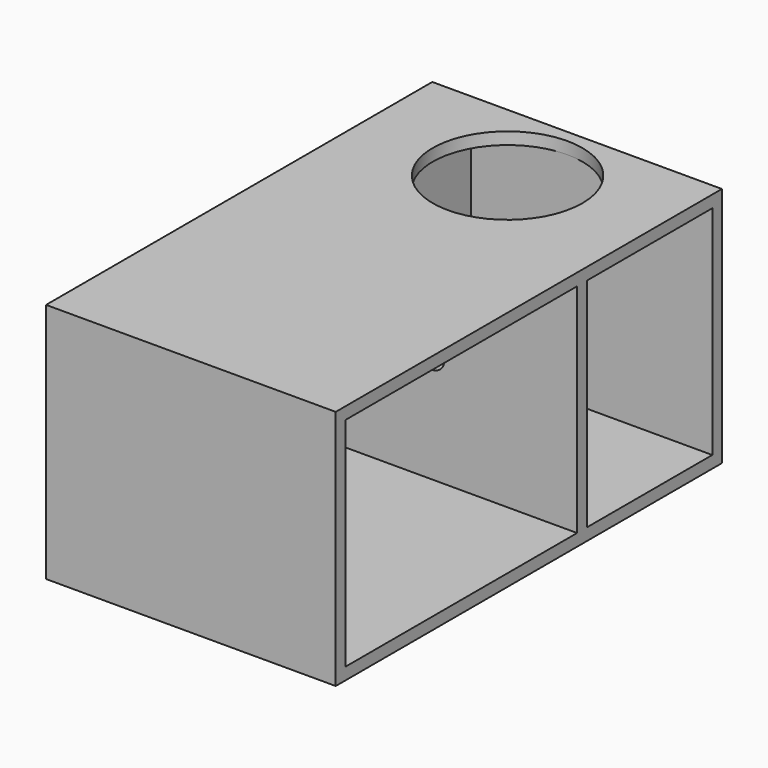
from build123d import *

# Parameters (mm, degrees)
F0_W      = 120
F0_H      = 70
F0_H_2    = 5
F0_H_3    = 125
F1_DEPTH  = 50
F2_DEPTH  = 50
F3_W      = 190
F3_H      = 90
F4_DEPTH  = 100
F5_R      = 31
F6_DEPTH  = 25
F7_R      = 5
F8_DEPTH  = 25
F9_DEPTH  = 50
F10_DEPTH = 50
F11_R     = 5
F12_DEPTH = 25


with BuildPart() as f1:
    # F0 (on Top) → F1 (new body)
    with BuildSketch(Plane.XY):
        with Locations((0, 65)):
            Rectangle(F0_W, F0_H)
        with Locations((0, 27.5)):
            Rectangle(F0_W, F0_H_2)
        with Locations((0, -37.5)):
            Rectangle(F0_W, F0_H_3)
    extrude(amount=-F1_DEPTH)

    # F0 (on Top) → F2 (join)
    with BuildSketch(Plane.XY):
        with Locations((0, 65)):
            Rectangle(F0_W, F0_H)
        with Locations((0, 27.5)):
            Rectangle(F0_W, F0_H_2)
        with Locations((0, -37.5)):
            Rectangle(F0_W, F0_H_3)
    extrude(amount=F2_DEPTH)

    # F3 (on face) → F4 (cut)
    with BuildSketch(Plane.YZ.offset(60)):
        Rectangle(F3_W, F3_H)
    extrude(amount=-F4_DEPTH, mode=Mode.SUBTRACT)

    # F5 (on face) → F6 (cut)
    with BuildSketch(Plane.XY.offset(50)):
        with Locations((0, 64)):
            Circle(F5_R)
    extrude(amount=-F6_DEPTH, mode=Mode.SUBTRACT)

    # F7 (on face) → F8 (cut)
    with BuildSketch(Plane(origin=(0, 100, 0), x_dir=(-1, 0, 0), z_dir=(0, 1, 0))):
        Circle(F7_R)
    extrude(amount=-F8_DEPTH, mode=Mode.SUBTRACT)

    # F0 (on Top) → F9 (join)
    with BuildSketch(Plane.XY):
        with Locations((0, 27.5)):
            Rectangle(F0_W, F0_H_2)
    extrude(amount=F9_DEPTH)

    # F0 (on Top) → F10 (join)
    with BuildSketch(Plane.XY):
        with Locations((0, 27.5)):
            Rectangle(F0_W, F0_H_2)
    extrude(amount=-F10_DEPTH)

    # F11 (on face) → F12 (cut)
    with BuildSketch(Plane.XZ.offset(-25)):
        Circle(F11_R)
    extrude(amount=-F12_DEPTH, mode=Mode.SUBTRACT)


solid = f1.part
